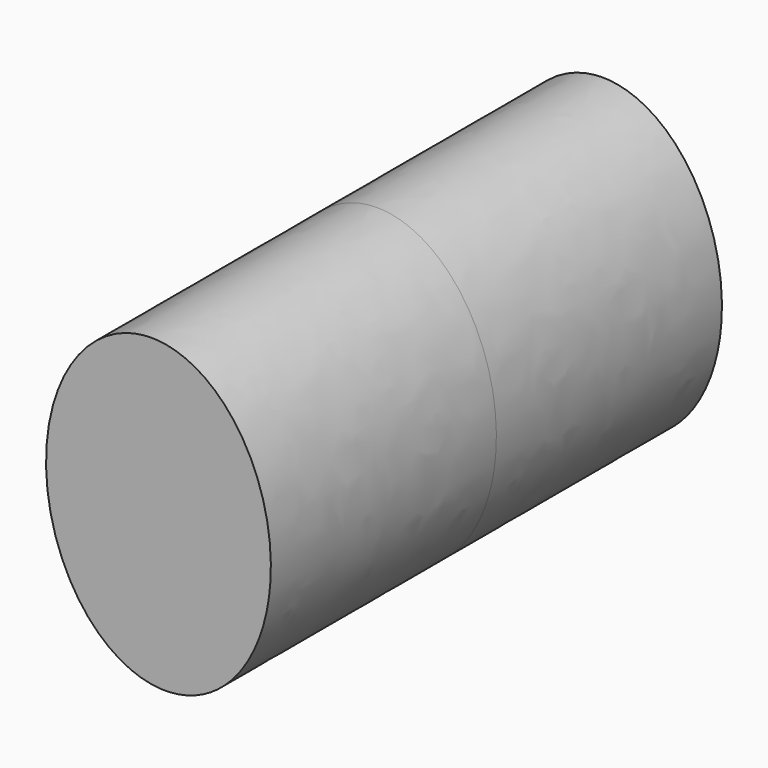
from build123d import *

# Parameters (mm, degrees)
F1_DEPTH = 101.6


with BuildPart() as f1:
    # F0 (on Front) → F1 (new body, symmetric)
    with BuildSketch(Plane.XZ):
        with BuildLine():
            add(Edge.make_bspline(
                [(-5.402137, 55.043377), (-74.941006, 48.218605), (-32.068367, -30.934074), (10.804273, -110.086754), (37.470503, -24.109303), (64.136733, 61.868149), (-5.402137, 55.043377)],
                knots=[0, 0, 0, 2.094395, 2.094395, 4.18879, 4.18879, 6.283185, 6.283185, 6.283185], degree=2, weights=[1, 0.5, 1, 0.5, 1, 0.5, 1]))
        make_face()
    extrude(amount=F1_DEPTH, both=True)


solid = f1.part
